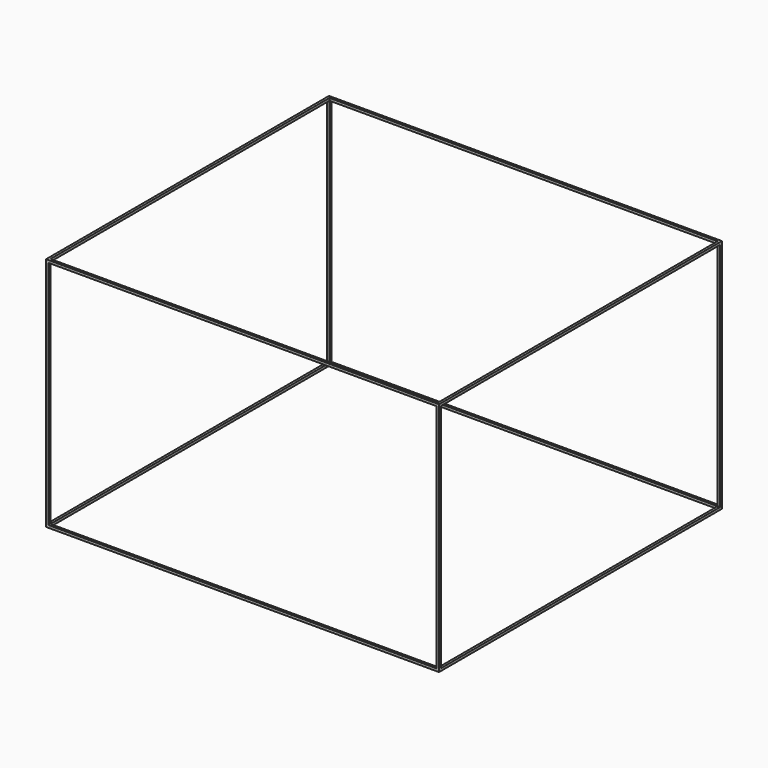
from build123d import *

# Parameters (mm, degrees)
F0_W     = 1016
F0_H     = 914.4
F1_DEPTH = 609.6
F2_W     = 1003.3
F2_H     = 901.7
F3_DEPTH = 609.601
F4_W     = 901.7
F4_H     = 596.9
F5_DEPTH = 1016.001
F6_W     = 1003.3
F6_H     = 596.9
F7_DEPTH = 914.401


with BuildPart() as f1:
    # F0 (on Top) → F1 (new body)
    with BuildSketch(Plane.XY):
        Rectangle(F0_W, F0_H)
    extrude(amount=F1_DEPTH)

    # F2 (on face) → F3 (cut, through all)
    with BuildSketch(Plane.XY.offset(609.6)):
        Rectangle(F2_W, F2_H)
    extrude(amount=-F3_DEPTH, mode=Mode.SUBTRACT)

    # F4 (on face) → F5 (cut, through all)
    with BuildSketch(Plane.YZ.offset(508)):
        with Locations((0, 304.8)):
            Rectangle(F4_W, F4_H)
    extrude(amount=-F5_DEPTH, mode=Mode.SUBTRACT)

    # F6 (on face) → F7 (cut, through all)
    with BuildSketch(Plane(origin=(0, 457.2, 0), x_dir=(-1, 0, 0), z_dir=(0, 1, 0))):
        with Locations((0, 304.8)):
            Rectangle(F6_W, F6_H)
    extrude(amount=-F7_DEPTH, mode=Mode.SUBTRACT)


solid = f1.part
